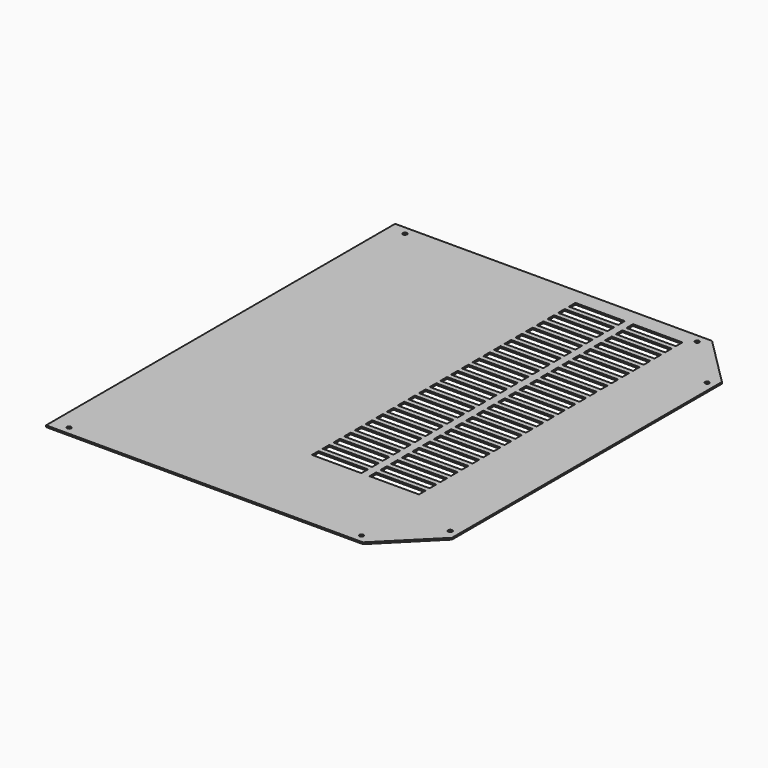
from build123d import *

# Parameters (mm, degrees)
SKETCH_R            = 2.5
PAD_DEPTH           = 2
SKETCH001_W         = 60
SKETCH001_H         = 10
POCKET_DEPTH        = 5
LINEARPATTERN_COUNT = 25
LINEARPATTERN_PITCH = 16.25


with BuildPart() as part:
    # Sketch → Pad (new body)
    with BuildSketch(Plane.XY):
        Polygon((-219.290563, 261.197963), (165.709437, 261.197963), (225.709437, 201.197963), (225.709437, -208.802037), (165.709437, -268.802037), (-219.290563, -268.802037), align=None)
        with Locations((155.709437, 251.197963)):
            Circle(SKETCH_R, mode=Mode.SUBTRACT)
        with Locations((215.709437, 191.197963)):
            Circle(SKETCH_R, mode=Mode.SUBTRACT)
        with Locations((215.709437, -198.802037)):
            Circle(SKETCH_R, mode=Mode.SUBTRACT)
        with Locations((155.709437, -258.802037)):
            Circle(SKETCH_R, mode=Mode.SUBTRACT)
        with Locations((-199.290563, 251.197963)):
            Circle(SKETCH_R, mode=Mode.SUBTRACT)
        with Locations((-199.290563, -258.802037)):
            Circle(SKETCH_R, mode=Mode.SUBTRACT)
    extrude(amount=PAD_DEPTH)

    # Sketch001 → Pocket (cut)
    with BuildSketch(Plane.XY.offset(2)):
        with Locations((45.709437, 236.197963)):
            Rectangle(SKETCH001_W, SKETCH001_H)
        with Locations((115.709437, 236.197963)):
            Rectangle(SKETCH001_W, SKETCH001_H)
    pocket = extrude(amount=-POCKET_DEPTH, mode=Mode.SUBTRACT)

    # LinearPattern: Pocket ×25
    with Locations(*[(0, -i * LINEARPATTERN_PITCH, 0) for i in range(1, LINEARPATTERN_COUNT)]):
        add(pocket, mode=Mode.SUBTRACT)


solid = part.part
